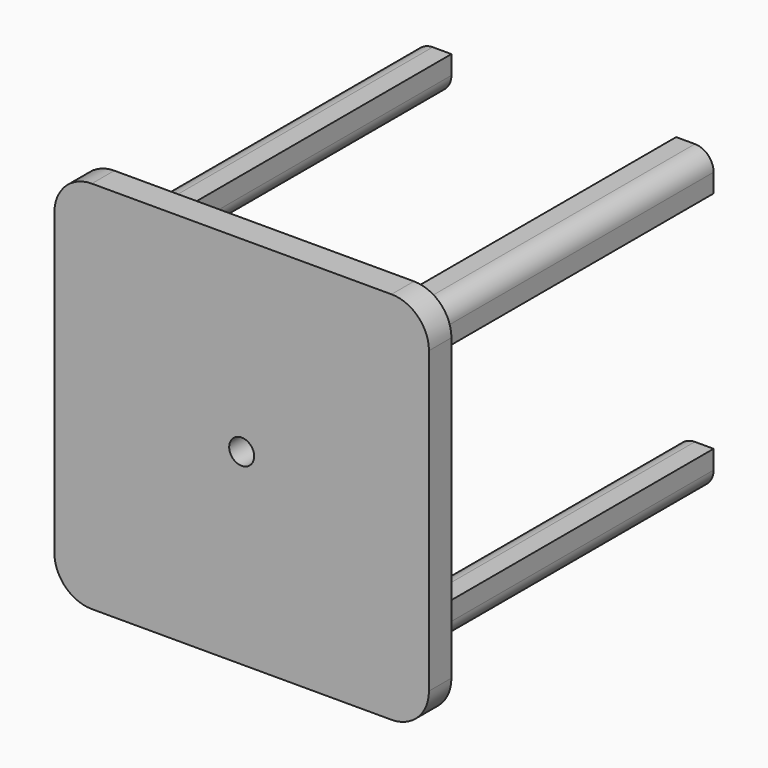
from build123d import *

# Parameters (mm, degrees)
F0_R     = 33.304712
F1_DEPTH = 25
F3_DEPTH = 1000
F4_DEPTH = 50
F5_W     = 50.000002
F5_H     = 50
F6_DEPTH = 600.71


with BuildPart() as f1:
    # F0 (on Front) → F1 (new body, symmetric)
    with BuildSketch(Plane.XZ):
        with BuildLine():
            Line((496.194038, 597.990143), (-303.805962, 597.990143))
            ThreePointArc((-303.805962, 597.990143), (-374.51664, 568.700821), (-403.805962, 497.990143))
            Line((-403.805962, 497.990143), (-403.805962, -302.009857))
            ThreePointArc((-403.805962, -302.009857), (-374.51664, -372.720535), (-303.805962, -402.009857))
            Line((-303.805962, -402.009857), (496.194038, -402.009857))
            ThreePointArc((496.194038, -402.009857), (566.904716, -372.720535), (596.194038, -302.009857))
            Line((596.194038, -302.009857), (596.194038, 497.990143))
            ThreePointArc((596.194038, 497.990143), (566.904716, 568.700821), (496.194038, 597.990143))
        make_face()
        with Locations((96.194038, 97.990143)):
            Circle(F0_R, mode=Mode.SUBTRACT)
    extrude(amount=F1_DEPTH, both=True)

    # F0 (on Front) → F4 (join)
    with BuildSketch(Plane.XZ):
        with BuildLine():
            Line((496.194038, 597.990143), (-303.805962, 597.990143))
            ThreePointArc((-303.805962, 597.990143), (-374.51664, 568.700821), (-403.805962, 497.990143))
            Line((-403.805962, 497.990143), (-403.805962, -302.009857))
            ThreePointArc((-403.805962, -302.009857), (-374.51664, -372.720535), (-303.805962, -402.009857))
            Line((-303.805962, -402.009857), (496.194038, -402.009857))
            ThreePointArc((496.194038, -402.009857), (566.904716, -372.720535), (596.194038, -302.009857))
            Line((596.194038, -302.009857), (596.194038, 497.990143))
            ThreePointArc((596.194038, 497.990143), (566.904716, 568.700821), (496.194038, 597.990143))
        make_face()
        with Locations((96.194038, 97.990143)):
            Circle(F0_R, mode=Mode.SUBTRACT)
    extrude(amount=F4_DEPTH)


with BuildPart() as f3:
    # F2 (on face) → F3 (new body)
    with BuildSketch(Plane(origin=(0, 25, 0), x_dir=(-1, 0, 0), z_dir=(0, 1, 0))):
        with BuildLine():
            Line((-396.194038, 497.990143), (-446.194038, 497.990143))
            ThreePointArc((-446.194038, 497.990143), (-481.549377, 483.345482), (-496.194038, 447.990143))
            Line((-496.194038, 447.990143), (-496.194038, 397.990143))
            Line((-496.194038, 397.990143), (-396.194038, 497.990143))
        make_face()
        with BuildLine():
            ThreePointArc((303.805962, 447.990143), (289.161301, 483.345482), (253.805962, 497.990143))
            Line((253.805962, 497.990143), (203.805962, 497.990143))
            Line((203.805962, 497.990143), (303.805962, 397.990143))
            Line((303.805962, 397.990143), (303.805962, 447.990143))
        make_face()
        with BuildLine():
            Line((203.805962, -302.009857), (253.805962, -302.009857))
            ThreePointArc((253.805962, -302.009857), (289.161301, -287.365196), (303.805962, -252.009857))
            Line((303.805962, -252.009857), (303.805962, -202.009857))
            Line((303.805962, -202.009857), (203.805962, -302.009857))
        make_face()
        with BuildLine():
            ThreePointArc((-496.194038, -252.009857), (-481.549377, -287.365196), (-446.194038, -302.009857))
            Line((-446.194038, -302.009857), (-396.194038, -302.009857))
            Line((-396.194038, -302.009857), (-496.194038, -202.009857))
            Line((-496.194038, -202.009857), (-496.194038, -252.009857))
        make_face()
        with BuildLine():
            Line((203.805962, -252.009857), (203.805962, -302.009857))
            Line((203.805962, -302.009857), (303.805962, -202.009857))
            Line((303.805962, -202.009857), (253.805962, -202.009857))
            ThreePointArc((253.805962, -202.009857), (218.450623, -216.654518), (203.805962, -252.009857))
        make_face()
        with BuildLine():
            Line((-496.194038, -202.009857), (-396.194038, -302.009857))
            Line((-396.194038, -302.009857), (-396.194038, -252.009857))
            ThreePointArc((-396.194038, -252.009857), (-410.838699, -216.654518), (-446.194038, -202.009857))
            Line((-446.194038, -202.009857), (-496.194038, -202.009857))
        make_face()
        with BuildLine():
            Line((-396.194038, 447.990143), (-396.194038, 497.990143))
            Line((-396.194038, 497.990143), (-496.194038, 397.990143))
            Line((-496.194038, 397.990143), (-446.194038, 397.990143))
            ThreePointArc((-446.194038, 397.990143), (-410.838699, 412.634804), (-396.194038, 447.990143))
        make_face()
        with BuildLine():
            Line((303.805962, 397.990143), (203.805962, 497.990143))
            Line((203.805962, 497.990143), (203.805962, 447.990143))
            ThreePointArc((203.805962, 447.990143), (218.450623, 412.634804), (253.805962, 397.990143))
            Line((253.805962, 397.990143), (303.805962, 397.990143))
        make_face()
    extrude(amount=F3_DEPTH)


with BuildPart() as f6:
    # F5 (on face) → F6 (new body)
    with BuildSketch(Plane.YZ.offset(-203.805962)):
        with Locations((50.000001, 472.990143)):
            Rectangle(F5_W, F5_H)
    extrude(amount=F6_DEPTH)


solid = Compound([f1.part, f3.part, f6.part])
